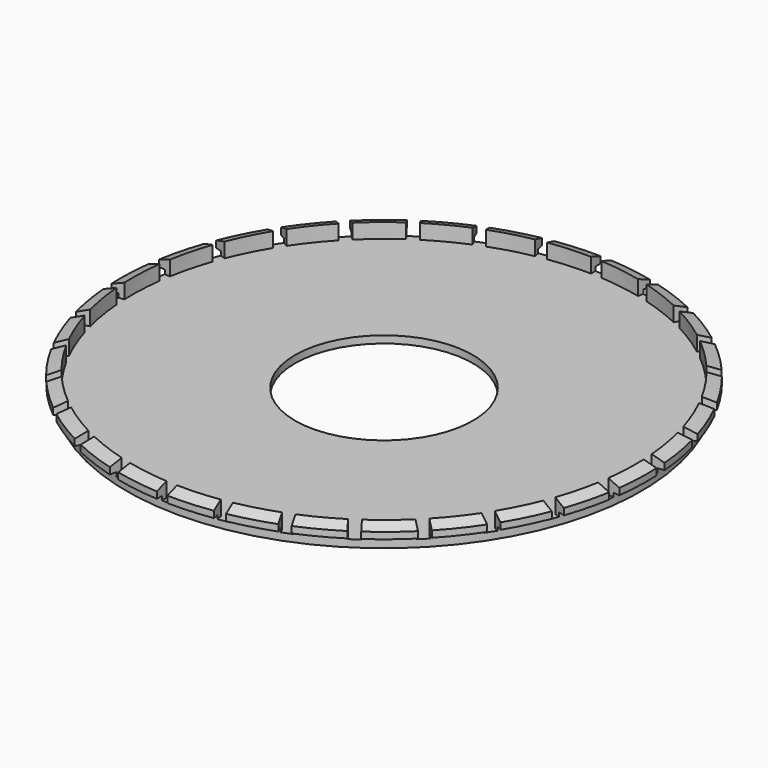
from build123d import *

# Parameters (mm, degrees)
F3_D     = 49
F3_DEPTH = 100
F4_W     = 3
F4_H     = 15.551
F5_DEPTH = 25


with BuildPart() as f1:
    # F0 (on Right) → F1 (revolve)
    with BuildSketch(Plane.YZ):
        Polygon((0, 2), (0, 0), (69.4, 0), (70.9, 0), (70.9, 2), (70.9, 3.1), (72.7, 3.1), (72.7, 4.9), (69.4, 6.078585), (69.4, 2), align=None)
    revolve(axis=Axis((0, 0, -0.390355), (0, 0, -1)))

    # F3
    with Locations(Plane(origin=(0, 0, 0), x_dir=(1, 0, 0), z_dir=(0, 0, -1))):
        with Locations((0, 0)):
            Hole(F3_D / 2, depth=F3_DEPTH)

    # F4 (on face) → F5 (cut)
    with BuildSketch(Plane.XY.offset(2)):
        with Locations((-3.026107, -69.748581)):
            Rectangle(F4_W, F4_H)
        Polygon((8.457727, -61.559851), (11.690962, -76.771024), (14.625405, -76.147289), (11.39217, -60.936116), align=None)
        Polygon((21.071918, -58.45616), (27.39708, -72.662706), (30.137716, -71.442496), (23.812555, -57.23595), align=None)
        Polygon((32.765165, -52.797655), (41.905814, -65.378678), (44.332865, -63.615322), (35.192216, -51.034299), align=None)
        Polygon((43.026418, -44.831638), (54.583063, -55.237288), (56.590455, -53.007854), (45.033809, -42.602204), align=None)
        Polygon((51.407209, -34.906264), (64.87477, -42.681764), (66.37477, -40.083688), (52.907209, -32.308188), align=None)
        Polygon((57.541258, -23.455319), (72.331138, -28.260842), (73.258189, -25.407673), (58.468309, -20.602149), align=None)
        Polygon((61.160479, -10.979264), (76.626289, -12.604786), (76.939874, -9.62122), (61.474064, -7.995698), align=None)
        Polygon((62.106693, 1.976638), (77.572503, 3.60216), (77.258917, 6.585726), (61.793107, 4.960204), align=None)
        Polygon((60.338546, 14.846152), (75.128426, 19.651675), (74.201375, 22.504844), (59.411495, 17.699321), align=None)
        Polygon((55.933316, 27.066817), (69.400877, 34.842317), (67.900877, 37.440393), (54.433316, 29.664893), align=None)
        Polygon((49.083531, 38.104532), (60.640176, 48.510182), (58.632785, 50.739617), (47.076139, 40.333967), align=None)
        Polygon((40.088561, 47.476897), (49.229209, 60.05792), (46.802158, 61.821276), (37.66151, 49.240252), align=None)
        Polygon((29.341527, 54.774293), (35.666689, 68.980838), (32.926053, 70.201048), (26.600891, 55.994503), align=None)
        Polygon((17.312129, 59.67779), (20.545364, 74.888963), (17.610921, 75.512698), (14.377686, 60.301525), align=None)
        with Locations((3.026107, 69.748581)):
            Rectangle(F4_W, F4_H)
        Polygon((-8.457727, 61.559851), (-11.690962, 76.771024), (-14.625405, 76.147289), (-11.39217, 60.936116), align=None)
        Polygon((-21.071918, 58.45616), (-27.39708, 72.662706), (-30.137716, 71.442496), (-23.812555, 57.23595), align=None)
        Polygon((-32.765165, 52.797655), (-41.905814, 65.378678), (-44.332865, 63.615322), (-35.192216, 51.034299), align=None)
        Polygon((-43.026418, 44.831638), (-54.583063, 55.237288), (-56.590455, 53.007854), (-45.033809, 42.602204), align=None)
        Polygon((-51.407209, 34.906264), (-64.87477, 42.681764), (-66.37477, 40.083688), (-52.907209, 32.308188), align=None)
        Polygon((-57.541258, 23.455319), (-72.331138, 28.260842), (-73.258189, 25.407673), (-58.468309, 20.602149), align=None)
        Polygon((-61.160479, 10.979264), (-76.626289, 12.604786), (-76.939874, 9.62122), (-61.474064, 7.995698), align=None)
        Polygon((-62.106693, -1.976638), (-77.572503, -3.60216), (-77.258917, -6.585726), (-61.793107, -4.960204), align=None)
        Polygon((-60.338546, -14.846152), (-75.128426, -19.651675), (-74.201375, -22.504844), (-59.411495, -17.699321), align=None)
        Polygon((-55.933316, -27.066817), (-69.400877, -34.842317), (-67.900877, -37.440393), (-54.433316, -29.664893), align=None)
        Polygon((-49.083531, -38.104532), (-60.640176, -48.510182), (-58.632785, -50.739617), (-47.076139, -40.333967), align=None)
        Polygon((-40.088561, -47.476897), (-49.229209, -60.05792), (-46.802158, -61.821276), (-37.66151, -49.240252), align=None)
        Polygon((-29.341527, -54.774293), (-35.666689, -68.980838), (-32.926053, -70.201048), (-26.600891, -55.994503), align=None)
        Polygon((-17.312129, -59.67779), (-20.545364, -74.888963), (-17.610921, -75.512698), (-14.377686, -60.301525), align=None)
    extrude(amount=F5_DEPTH, mode=Mode.SUBTRACT)


solid = f1.part
